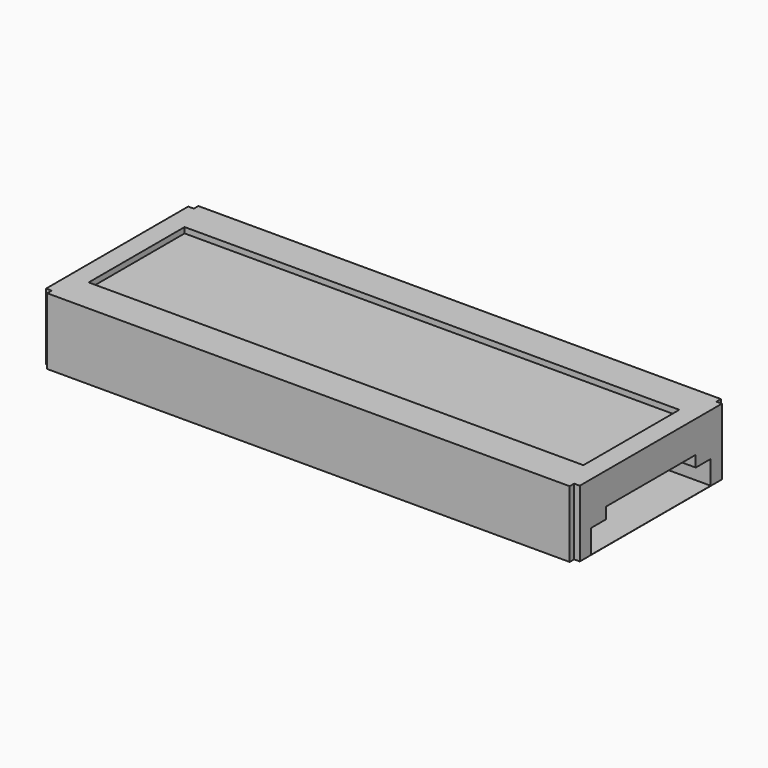
from build123d import *

# Parameters (mm, degrees)
PAD002_DEPTH     = 75
BOX011_W         = 66
BOX011_H         = 16
BOX011_DEPTH     = 0.75
BOX010_W         = 0.75
BOX010_H         = 0.75
BOX010_DEPTH     = 9
ARRAY007_X_COUNT = 2
ARRAY007_X_PITCH = 70.45
ARRAY007_Y_COUNT = 2
ARRAY007_Y_PITCH = 24.45
BOX009_W         = 71.2
BOX009_H         = 25.2
BOX009_DEPTH     = 8.9


with BuildPart() as screen_lateral_hole:
    # Sketch002 → Pad002 (new body)
    with BuildSketch(Plane.YZ):
        Polygon((12.982779, 1.619702), (12.982779, 4.769702), (15.482779, 4.769702), (15.482779, 6.269702), (30.482779, 6.269702), (30.482779, 4.769702), (32.982779, 4.769702), (32.982779, 1.619702), align=None)
    extrude(amount=PAD002_DEPTH)


with BuildPart() as screen_lateral_hole_1:
    # Body002 placement: moved
    add(screen_lateral_hole.part.moved(Location((9, 0, 0))))


with BuildPart() as screen:
    # Box011 → Box011 (new body)
    with BuildSketch(Plane(origin=(9, 15, 9.75), x_dir=(1, 0, 0), z_dir=(0, 0, 1))):
        with Locations((33, 8)):
            Rectangle(BOX011_W, BOX011_H)
    extrude(amount=BOX011_DEPTH)


with BuildPart() as obj1:
    # Box010 → Box010 (new body)
    with BuildSketch(Plane(origin=(6.4, 10.4, 1.6), x_dir=(1, 0, 0), z_dir=(0, 0, 1))):
        with Locations((0.375, 0.375)):
            Rectangle(BOX010_W, BOX010_H)
    extrude(amount=BOX010_DEPTH)

    # Array007 X: obj1_2


with BuildPart() as obj1_1:
    add(obj1.part)
    with Locations(*[(i * ARRAY007_X_PITCH, 0, 0) for i in range(1, ARRAY007_X_COUNT)]):
        add(obj1.part)

    # Array007 Y: obj1_2


with BuildPart() as obj1_2:
    add(obj1_1.part)
    with Locations(*[(0, i * ARRAY007_Y_PITCH, 0) for i in range(1, ARRAY007_Y_COUNT)]):
        add(obj1_1.part)

    # Fusion002004: union Screen Lateral Hole, Screen
    add(screen_lateral_hole_1.part)
    add(screen.part)


with BuildPart() as panel:
    # Box009 → Box009 (new body)
    with BuildSketch(Plane(origin=(6.4, 10.4, 1.6), x_dir=(1, 0, 0), z_dir=(0, 0, 1))):
        with Locations((35.6, 12.6)):
            Rectangle(BOX009_W, BOX009_H)
    extrude(amount=BOX009_DEPTH)

    # Cut001: cut obj1
    add(obj1_2.part, mode=Mode.SUBTRACT)


solid = panel.part
